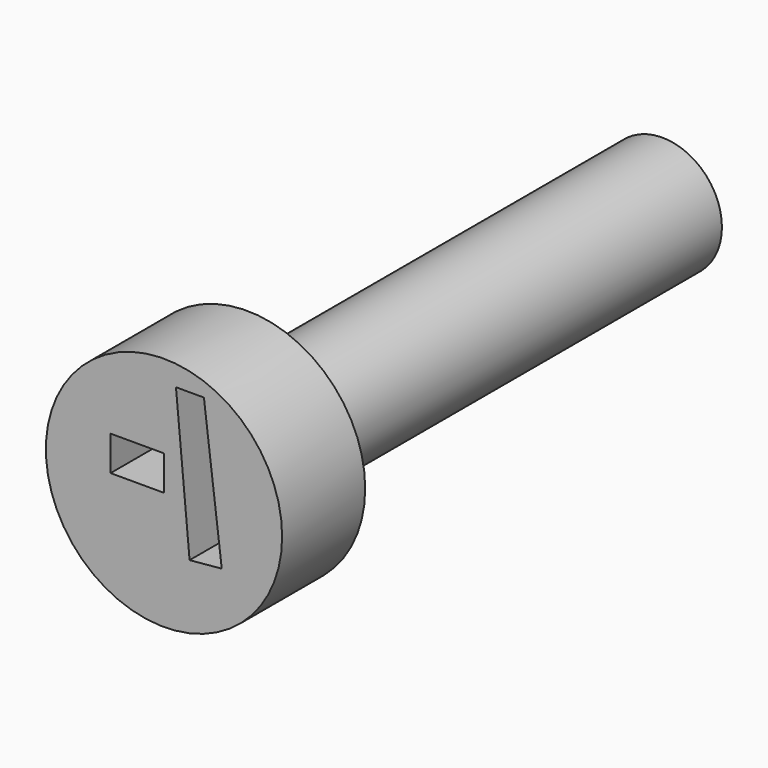
from build123d import *

# Parameters (mm, degrees)
F0_R     = 28.446673
F1_DEPTH = 25
F2_W     = 12.863994
F2_H     = 8.371785
F3_DEPTH = 25
F5_DEPTH = 25
F6_R     = 14.342599
F7_DEPTH = 125


with BuildPart() as f1:
    # F0 (on Front) → F1 (new body)
    with BuildSketch(Plane.XZ):
        Circle(F0_R)
    extrude(amount=F1_DEPTH)

    # F2 (on Front) → F3 (cut)
    with BuildSketch(Plane.XZ):
        with Locations((-6.431997, 4.185892)):
            Rectangle(F2_W, F2_H)
    extrude(amount=F3_DEPTH, mode=Mode.SUBTRACT)

    # F4 (on Front) → F5 (cut)
    with BuildSketch(Plane.XZ):
        Polygon((13.908368, -11.549142), (9.61332, 23.327414), (2.882242, 23.327414), (6.163642, -12.263194), align=None)
    extrude(amount=F5_DEPTH, mode=Mode.SUBTRACT)

    # F6 (on Front) → F7 (join)
    with BuildSketch(Plane.XZ):
        Circle(F6_R)
    extrude(amount=-F7_DEPTH)


solid = f1.part
